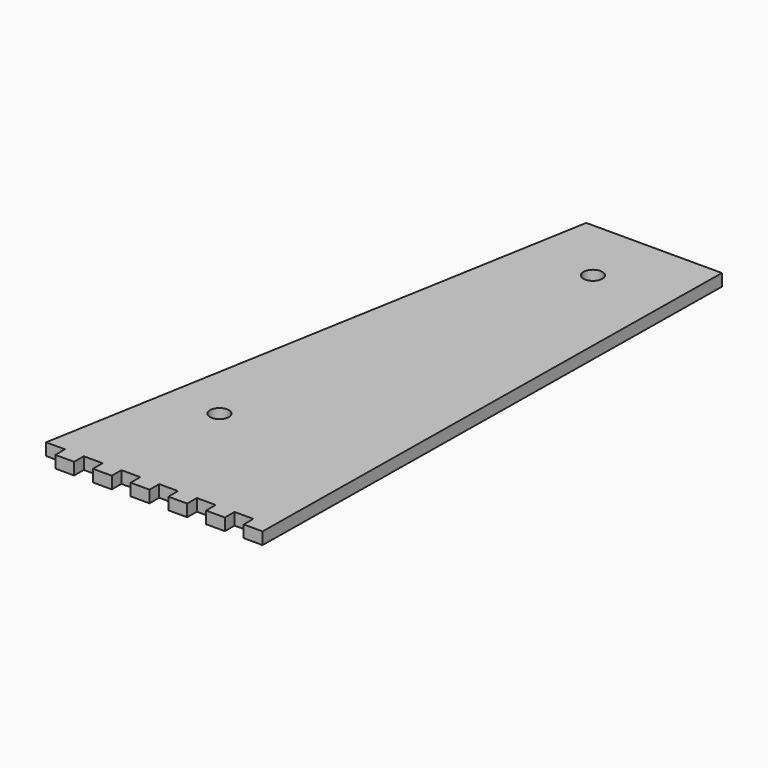
from build123d import *

# Parameters (mm, degrees)
F0_R     = 2.5
F1_DEPTH = 3.2


with BuildPart() as f1:
    # F0 (on Top) → F1 (new body)
    with BuildSketch(Plane.XY):
        Polygon((34.059358, 100.213571), (-1.940642, 100.213571), (-27.825443, -46.586429), (-22.825443, -46.586429), (-22.825443, -49.786429), (-17.825443, -49.786429), (-17.825443, -46.586429), (-12.825443, -46.586429), (-12.825443, -49.786429), (-7.825443, -49.786429), (-7.825443, -46.586429), (-2.825443, -46.586429), (-2.825443, -49.786429), (2.174557, -49.786429), (2.174557, -46.586429), (7.174557, -46.586429), (7.174557, -49.786429), (12.174557, -49.786429), (12.174557, -46.586429), (17.174557, -46.586429), (17.174557, -49.786429), (22.174557, -49.786429), (22.174557, -46.586429), (27.174557, -46.586429), (27.174557, -49.786429), (32.174557, -49.786429), align=None)
        with Locations((-7.825443, -14.086429)):
            Circle(F0_R, mode=Mode.SUBTRACT)
        with Locations((13.837886, 82.713571)):
            Circle(F0_R, mode=Mode.SUBTRACT)
    extrude(amount=F1_DEPTH)


solid = f1.part
